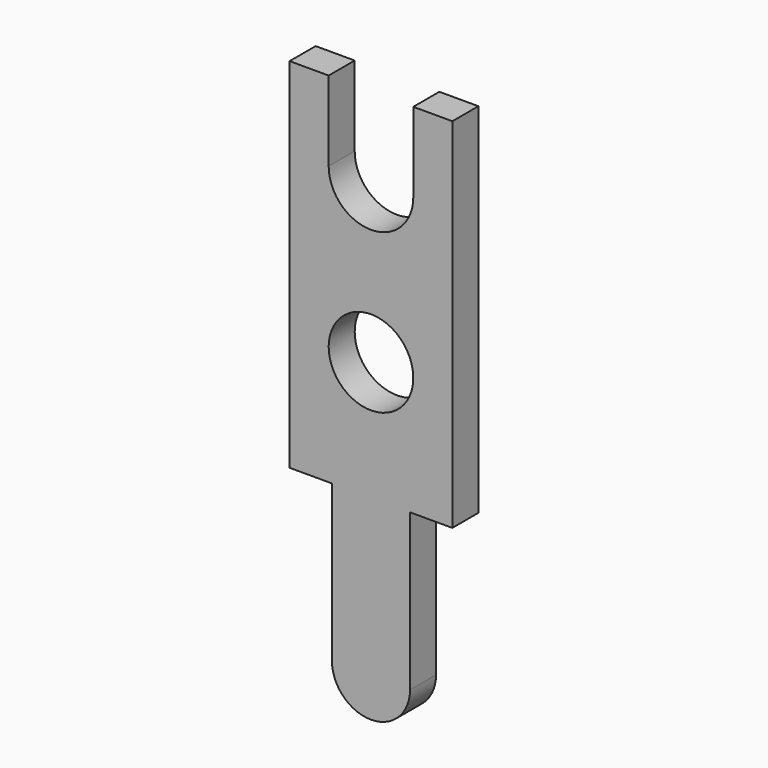
from build123d import *

# Parameters (mm, degrees)
SKETCH_R  = 0.65
PAD_DEPTH = 0.25


with BuildPart() as part:
    # Sketch → Pad (new body, symmetric)
    with BuildSketch(Plane(origin=(0, 0, 0), x_dir=(-1, 0, 0), z_dir=(0, 1, 0))):
        with BuildLine():
            Line((-1.25, 5.5), (-1.25, 0))
            Line((-1.25, 0), (-0.6, 0))
            Line((-0.6, 0), (-0.6, -2.4))
            ThreePointArc((-0.6, -2.4), (0, -3), (0.6, -2.4))
            Line((0.6, 0), (0.6, -2.4))
            Line((0.6, 0), (1.25, 0))
            Line((1.25, 0), (1.25, 5.5))
            Line((1.25, 5.5), (0.65, 5.5))
            Line((0.65, 5.5), (0.65, 4.275))
            ThreePointArc((-0.65, 4.275), (0, 3.625), (0.65, 4.275))
            Line((-0.65, 4.275), (-0.65, 5.5))
            Line((-0.65, 5.5), (-1.25, 5.5))
        make_face()
        with Locations((0, 1.83315)):
            Circle(SKETCH_R, mode=Mode.SUBTRACT)
    extrude(amount=PAD_DEPTH, both=True)


solid = part.part
